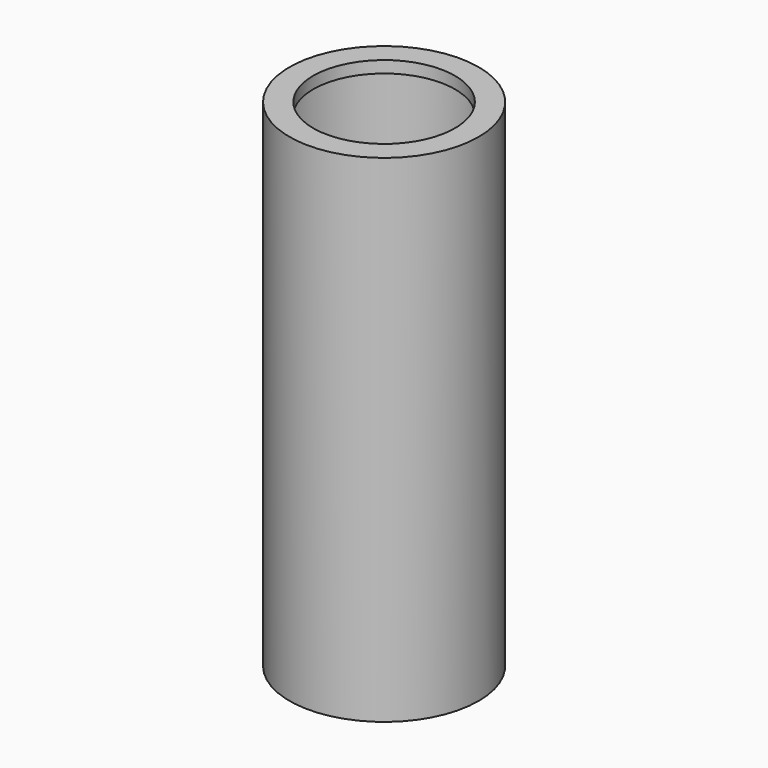
from build123d import *

# Parameters (mm, degrees)
F0_R     = 25.4
F0_R_2   = 23.8125
F1_DEPTH = 127
F2_R     = 25.4
F3_DEPTH = 3.175
F4_R     = 25.4
F5_DEPTH = 3.175
F7_D     = 38.1


with BuildPart() as f1:
    # F0 (on Top) → F1 (new body)
    with BuildSketch(Plane.XY):
        Circle(F0_R)
        Circle(F0_R_2, mode=Mode.SUBTRACT)
    extrude(amount=F1_DEPTH)

    # F2 (on face) → F3 (join)
    with BuildSketch(Plane.XY.offset(127)):
        Circle(F2_R)
    extrude(amount=F3_DEPTH)

    # F4 (on face) → F5 (join)
    with BuildSketch(Plane(origin=(0, 0, 0), x_dir=(1, 0, 0), z_dir=(0, 0, -1))):
        Circle(F4_R)
    extrude(amount=F5_DEPTH)

    # F7 (through all)
    with Locations(Plane(origin=(0, 0, -3.175), x_dir=(1, 0, 0), z_dir=(0, 0, -1))):
        with Locations((0, 0)):
            Hole(F7_D / 2)


solid = f1.part
